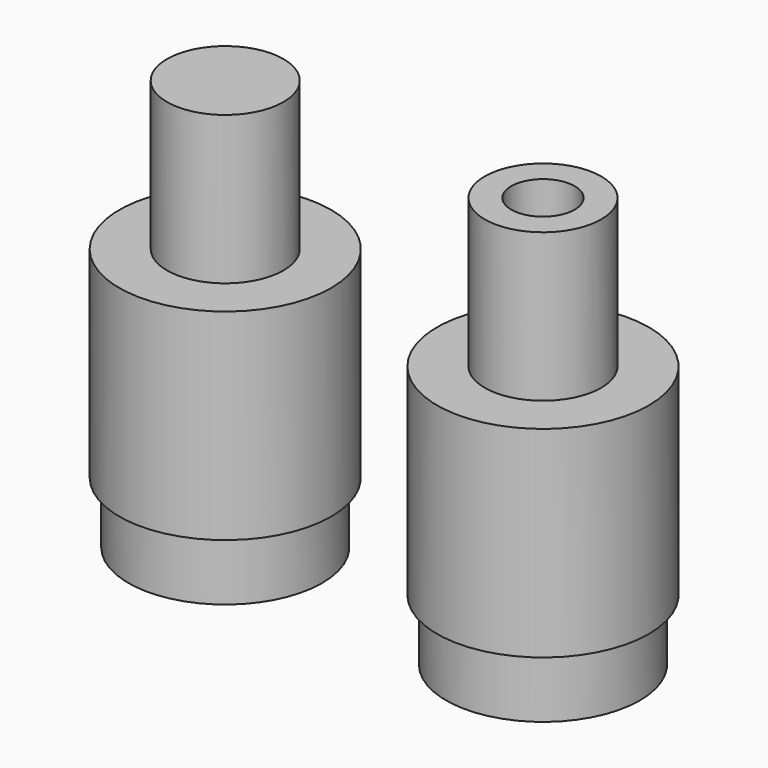
from build123d import *

# Parameters (mm, degrees)
SKETCH_R        = 4.575
PAD_DEPTH       = 2.9
SKETCH001_R     = 5
PAD001_DEPTH    = 9.5
SKETCH002_R     = 2.75
PAD002_DEPTH    = 7
SKETCH003_R     = 2.5
POCKET_DEPTH    = 9
SKETCH004_R     = 4.575
PAD003_DEPTH    = 2.9
SKETCH005_R     = 5
PAD004_DEPTH    = 9.5
SKETCH006_R     = 2.75
PAD005_DEPTH    = 7
SKETCH007_R     = 2
POCKET001_DEPTH = 5
SKETCH008_R     = 1.5
POCKET002_DEPTH = 14.401


with BuildPart() as glass_side:
    # Sketch → Pad (new body)
    with BuildSketch(Plane.XY):
        Circle(SKETCH_R)
    extrude(amount=PAD_DEPTH)

    # Sketch001 (on Face3 of Pad) → Pad001 (join)
    with BuildSketch(Plane.XY.offset(2.9)):
        Circle(SKETCH001_R)
    extrude(amount=PAD001_DEPTH)

    # Sketch002 (on Face3 of Pad001) → Pad002 (join)
    with BuildSketch(Plane.XY.offset(12.4)):
        Circle(SKETCH002_R)
    extrude(amount=PAD002_DEPTH)

    # Sketch003 (on Face6 of Pad002) → Pocket (cut)
    with BuildSketch(Plane(origin=(0, 0, 0), x_dir=(1, 0, 0), z_dir=(0, 0, -1))):
        Circle(SKETCH003_R)
    extrude(amount=-POCKET_DEPTH, mode=Mode.SUBTRACT)


with BuildPart() as metal_side:
    # Sketch004 → Pad003 (new body)
    with BuildSketch(Plane.XY):
        with Locations((15, 0)):
            Circle(SKETCH004_R)
    extrude(amount=PAD003_DEPTH)

    # Sketch005 (on Face3 of Pad003) → Pad004 (join)
    with BuildSketch(Plane.XY.offset(2.9)):
        with Locations((15, 0)):
            Circle(SKETCH005_R)
    extrude(amount=PAD004_DEPTH)

    # Sketch006 (on Face3 of Pad004) → Pad005 (join)
    with BuildSketch(Plane.XY.offset(12.4)):
        with Locations((15, 0)):
            Circle(SKETCH006_R)
    extrude(amount=PAD005_DEPTH)

    # Sketch007 (on Face6 of Pad005) → Pocket001 (cut)
    with BuildSketch(Plane(origin=(0, 0, 0), x_dir=(1, 0, 0), z_dir=(0, 0, -1))):
        with Locations((15, 0)):
            Circle(SKETCH007_R)
    extrude(amount=-POCKET001_DEPTH, mode=Mode.SUBTRACT)

    # Sketch008 (on Face9 of Pocket001) → Pocket002 (cut, through all)
    with BuildSketch(Plane(origin=(0, 0, 5), x_dir=(1, 0, 0), z_dir=(0, 0, -1))):
        with Locations((15, 0)):
            Circle(SKETCH008_R)
    extrude(amount=-POCKET002_DEPTH, mode=Mode.SUBTRACT)


solid = Compound([glass_side.part, metal_side.part])
